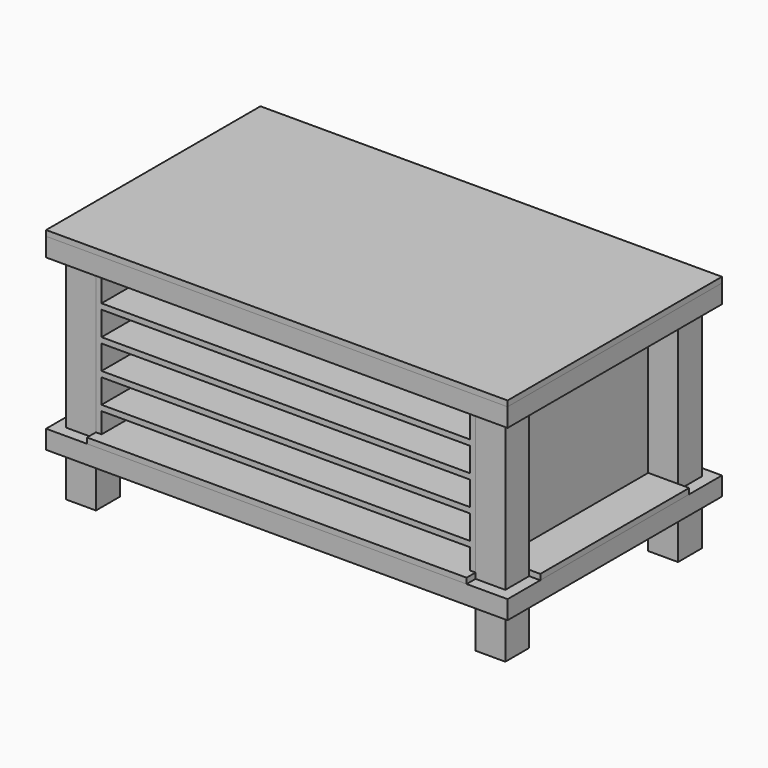
from build123d import *

# Parameters (mm, degrees)
F0_W      = 1574.8
F0_H      = 914.4
F1_DEPTH  = 19.05
F2_W      = 38.1
F2_H      = 838.2
F3_DEPTH  = 63.5
F4_W      = 101.6
F4_H      = 101.6
F5_DEPTH  = 793.75
F7_W      = 38.1
F7_H      = 838.2
F8_DEPTH  = 63.5
F11_DEPTH = 19.05
F13_W     = 1257.3
F13_H     = 19.05
F13_W_2   = 19.05
F13_H_2   = 82.55
F13_H_3   = 69.85
F14_DEPTH = 838.2
F15_W     = 1295.4
F15_H     = 495.3
F16_DEPTH = 19.05


with BuildPart() as f1:
    # F0 (on Top) → F1 (new body)
    with BuildSketch(Plane.XY):
        with Locations((787.4, -457.2)):
            Rectangle(F0_W, F0_H)
    extrude(amount=-F1_DEPTH)


with BuildPart() as f3:
    # F2 (on face) → F3 (new body)
    with BuildSketch(Plane(origin=(0, 0, -19.05), x_dir=(1, 0, 0), z_dir=(0, 0, -1))):
        Polygon((38.1, 914.4), (0, 914.4), (0, 0), (38.1, 0), (38.1, 38.1), (38.1, 876.3), align=None)
        Polygon((1536.7, 914.4), (38.1, 914.4), (38.1, 876.3), (260.35, 876.3), (298.45, 876.3), (514.35, 876.3), (552.45, 876.3), (768.35, 876.3), (806.45, 876.3), (1022.35, 876.3), (1060.45, 876.3), (1276.35, 876.3), (1314.45, 876.3), (1536.7, 876.3), align=None)
        Polygon((1574.8, 914.4), (1536.7, 914.4), (1536.7, 876.3), (1536.7, 38.1), (1536.7, 0), (1574.8, 0), align=None)
        Polygon((38.1, 38.1), (38.1, 0), (1536.7, 0), (1536.7, 38.1), (1314.45, 38.1), (1276.35, 38.1), (1060.45, 38.1), (1022.35, 38.1), (806.45, 38.1), (768.35, 38.1), (552.45, 38.1), (514.35, 38.1), (298.45, 38.1), (260.35, 38.1), align=None)
        with Locations((279.4, 457.2)):
            Rectangle(F2_W, F2_H)
        with Locations((533.4, 457.2)):
            Rectangle(F2_W, F2_H)
        with Locations((787.4, 457.2)):
            Rectangle(F2_W, F2_H)
        with Locations((1041.4, 457.2)):
            Rectangle(F2_W, F2_H)
        with Locations((1295.4, 457.2)):
            Rectangle(F2_W, F2_H)
    extrude(amount=F3_DEPTH)


with BuildPart() as f5:
    # F4 (on face) → F5 (new body)
    with BuildSketch(Plane(origin=(0, 0, -19.05), x_dir=(1, 0, 0), z_dir=(0, 0, -1))):
        with Locations((88.9, 825.5)):
            Rectangle(F4_W, F4_H)
    extrude(amount=F5_DEPTH)


with BuildPart() as f5b:
    # F4 (on face) → F5, piece 2 (new body)
    with BuildSketch(Plane(origin=(0, 0, -19.05), x_dir=(1, 0, 0), z_dir=(0, 0, -1))):
        with Locations((1485.9, 825.5)):
            Rectangle(F4_W, F4_H)
    extrude(amount=F5_DEPTH)


with BuildPart() as f5c:
    # F4 (on face) → F5, piece 3 (new body)
    with BuildSketch(Plane(origin=(0, 0, -19.05), x_dir=(1, 0, 0), z_dir=(0, 0, -1))):
        with Locations((1485.9, 88.9)):
            Rectangle(F4_W, F4_H)
    extrude(amount=F5_DEPTH)


with BuildPart() as f5d:
    # F4 (on face) → F5, piece 4 (new body)
    with BuildSketch(Plane(origin=(0, 0, -19.05), x_dir=(1, 0, 0), z_dir=(0, 0, -1))):
        with Locations((88.9, 88.9)):
            Rectangle(F4_W, F4_H)
    extrude(amount=F5_DEPTH)


with BuildPart() as f8:
    # F7 (on offset) → F8 (new body)
    with BuildSketch(Plane(origin=(0, 0, -660.4), x_dir=(1, 0, 0), z_dir=(0, 0, -1))):
        with Locations((533.4, 457.2)):
            Rectangle(F7_W, F7_H)
        with Locations((787.4, 457.2)):
            Rectangle(F7_W, F7_H)
        with Locations((1041.4, 457.2)):
            Rectangle(F7_W, F7_H)
        with Locations((1295.4, 457.2)):
            Rectangle(F7_W, F7_H)
        Polygon((1574.8, 914.4), (1536.7, 914.4), (1536.7, 876.3), (1536.7, 38.1), (1536.7, 0), (1574.8, 0), align=None)
        Polygon((38.1, 38.1), (38.1, 0), (1536.7, 0), (1536.7, 38.1), (1314.45, 38.1), (1276.35, 38.1), (1060.45, 38.1), (1022.35, 38.1), (806.45, 38.1), (768.35, 38.1), (552.45, 38.1), (514.35, 38.1), (298.45, 38.1), (260.35, 38.1), align=None)
        Polygon((1536.7, 914.4), (38.1, 914.4), (38.1, 876.3), (260.35, 876.3), (298.45, 876.3), (514.35, 876.3), (552.45, 876.3), (768.35, 876.3), (806.45, 876.3), (1022.35, 876.3), (1060.45, 876.3), (1276.35, 876.3), (1314.45, 876.3), (1536.7, 876.3), align=None)
        with Locations((279.4, 457.2)):
            Rectangle(F7_W, F7_H)
        Polygon((38.1, 914.4), (0, 914.4), (0, 0), (38.1, 0), (38.1, 38.1), (38.1, 876.3), align=None)
    extrude(amount=-F8_DEPTH)


with BuildPart() as f11:
    # F10 (on face) → F11 (new body)
    with BuildSketch(Plane.XY.offset(-596.9)):
        Polygon((1435.1, 0), (139.7, 0), (139.7, -139.7), (0, -139.7), (0, -774.7), (139.7, -774.7), (139.7, -914.4), (1435.1, -914.4), (1435.1, -774.7), (1574.8, -774.7), (1574.8, -139.7), (1435.1, -139.7), align=None)
    extrude(amount=F11_DEPTH)


with BuildPart() as f14:
    # F13 (on offset) → F14 (new body)
    with BuildSketch(Plane(origin=(0, -38.1, 0), x_dir=(-1, 0, 0), z_dir=(0, 1, 0))):
        with Locations((-787.4, -193.675)):
            Rectangle(F13_W, F13_H)
        with Locations((-787.4, -295.275)):
            Rectangle(F13_W, F13_H)
        with Locations((-787.4, -396.875)):
            Rectangle(F13_W, F13_H)
        with Locations((-787.4, -498.475)):
            Rectangle(F13_W, F13_H)
        with Locations((-787.4, -92.075)):
            Rectangle(F13_W, F13_H)
        with Locations((-1425.575, -142.875)):
            Rectangle(F13_W_2, F13_H_2)
        with Locations((-1425.575, -92.075)):
            Rectangle(F13_W_2, F13_H)
        with Locations((-1425.575, -193.675)):
            Rectangle(F13_W_2, F13_H)
        with Locations((-1425.575, -244.475)):
            Rectangle(F13_W_2, F13_H_2)
        with Locations((-1425.575, -295.275)):
            Rectangle(F13_W_2, F13_H)
        with Locations((-1425.575, -346.075)):
            Rectangle(F13_W_2, F13_H_2)
        with Locations((-1425.575, -396.875)):
            Rectangle(F13_W_2, F13_H)
        with Locations((-1425.575, -447.675)):
            Rectangle(F13_W_2, F13_H_2)
        with Locations((-1425.575, -542.925)):
            Rectangle(F13_W_2, F13_H_3)
        with Locations((-1425.575, -498.475)):
            Rectangle(F13_W_2, F13_H)
        with Locations((-149.225, -542.925)):
            Rectangle(F13_W_2, F13_H_3)
        with Locations((-149.225, -447.675)):
            Rectangle(F13_W_2, F13_H_2)
        with Locations((-149.225, -346.075)):
            Rectangle(F13_W_2, F13_H_2)
        with Locations((-149.225, -498.475)):
            Rectangle(F13_W_2, F13_H)
        with Locations((-149.225, -396.875)):
            Rectangle(F13_W_2, F13_H)
        with Locations((-149.225, -295.275)):
            Rectangle(F13_W_2, F13_H)
        with Locations((-149.225, -244.475)):
            Rectangle(F13_W_2, F13_H_2)
        with Locations((-149.225, -193.675)):
            Rectangle(F13_W_2, F13_H)
        with Locations((-149.225, -142.875)):
            Rectangle(F13_W_2, F13_H_2)
        with Locations((-149.225, -92.075)):
            Rectangle(F13_W_2, F13_H)
    extrude(amount=-F14_DEPTH)


with BuildPart() as f16:
    # F15 (on face) → F16 (new body)
    with BuildSketch(Plane(origin=(0, -38.1, 0), x_dir=(-1, 0, 0), z_dir=(0, 1, 0))):
        with Locations((-787.4, -330.2)):
            Rectangle(F15_W, F15_H)
    extrude(amount=-F16_DEPTH)


solid = Compound([f1.part, f3.part, f5.part, f5b.part, f5c.part, f5d.part, f8.part, f11.part, f14.part, f16.part])
